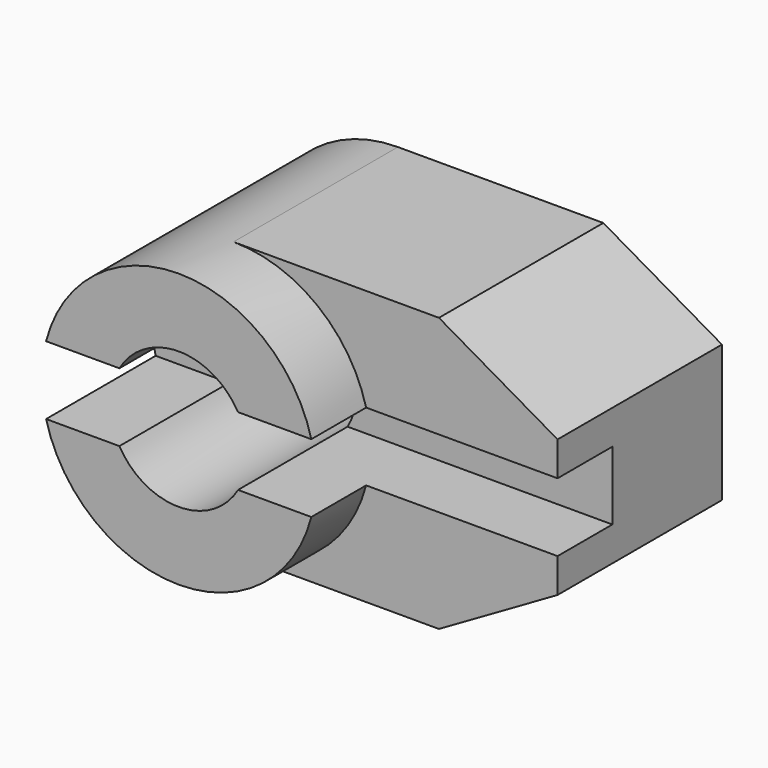
from build123d import *

# Parameters (mm, degrees)
F0_R     = 10
F0_R_2   = 5
F1_DEPTH = 20
F3_START = -5
F3_DEPTH = 15
F4_W     = 5
F4_H     = 5
F5_DEPTH = 33.6612540378


with BuildPart() as f1:
    # F0 (on Front) → F1 (new body)
    with BuildSketch(Plane.XZ):
        Circle(F0_R)
        Circle(F0_R_2, mode=Mode.SUBTRACT)
    extrude(amount=F1_DEPTH)

    # F2 (on face) → F3 (join)
    with BuildSketch(Plane.XZ.offset(20).offset(F3_START)):
        Polygon((23.6602540378, 5), (15, 10), (15, -10), (23.6602540378, -5), align=None)
        with BuildLine():
            Line((15, 10), (0, 10))
            ThreePointArc((0, 10), (7.0710678119, 7.0710678119), (10, 0))
            ThreePointArc((10, 0), (7.0710678119, -7.0710678119), (0, -10))
            Line((0, -10), (15, -10))
            Line((15, -10), (15, 10))
        make_face()
    extrude(amount=-F3_DEPTH)

    # F4 (on face) → F5 (cut, through all)
    with BuildSketch(Plane.YZ.offset(23.6602540378)):
        with Locations((-12.5, 0)):
            Rectangle(F4_W, F4_H)
        with Locations((-17.5, 0)):
            Rectangle(F4_W, F4_H)
    extrude(amount=-F5_DEPTH, mode=Mode.SUBTRACT)


solid = f1.part
